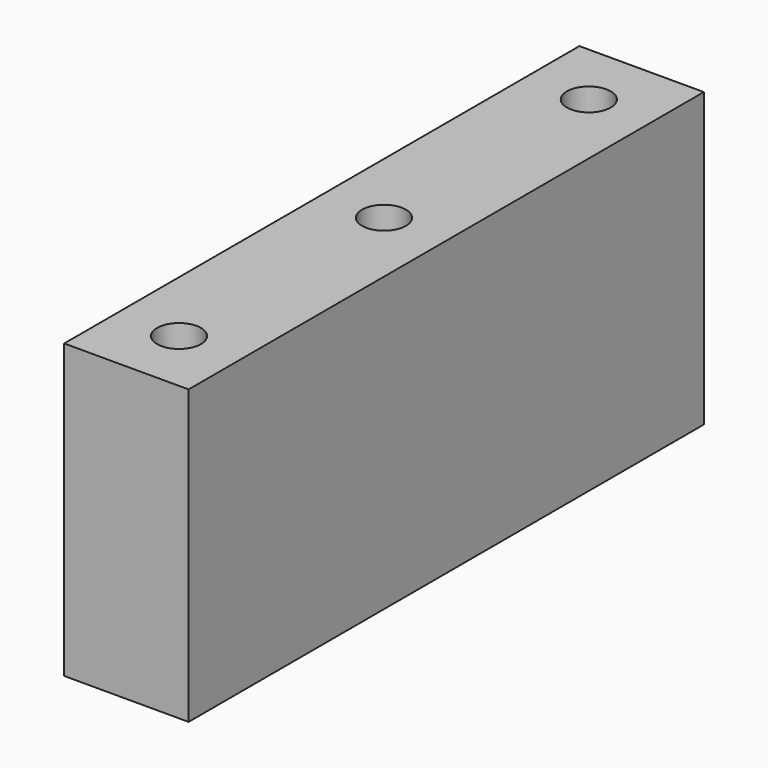
from build123d import *

# Parameters (mm, degrees)
SKETCH017_W   = 8.5
SKETCH017_H   = 44
PAD001_DEPTH  = 20
SKETCH016_R   = 1.5
HOLE001_DEPTH = 4
SKETCH019_R   = 1.5
HOLE003_DEPTH = 4


with BuildPart() as part:
    # Sketch017 → Pad001 (new body)
    with BuildSketch(Plane.XY):
        with Locations((166.25, 22)):
            Rectangle(SKETCH017_W, SKETCH017_H)
    extrude(amount=PAD001_DEPTH)

    # Sketch016 → Hole001 (cut)
    with BuildSketch(Plane.XY):
        with Locations((166.244797, 39.500001)):
            Circle(SKETCH016_R)
        with Locations((166.247574, 22)):
            Circle(SKETCH016_R)
        with Locations((166.247574, 4.5)):
            Circle(SKETCH016_R)
    extrude(amount=HOLE001_DEPTH, mode=Mode.SUBTRACT)

    # Sketch019 (on Face5 of Hole001) → Hole003 (cut)
    with BuildSketch(Plane.XY.offset(20)):
        with Locations((166.244797, 39.500001)):
            Circle(SKETCH019_R)
        with Locations((166.247574, 22)):
            Circle(SKETCH019_R)
        with Locations((166.247574, 4.5)):
            Circle(SKETCH019_R)
    extrude(amount=-HOLE003_DEPTH, mode=Mode.SUBTRACT)


solid = part.part
